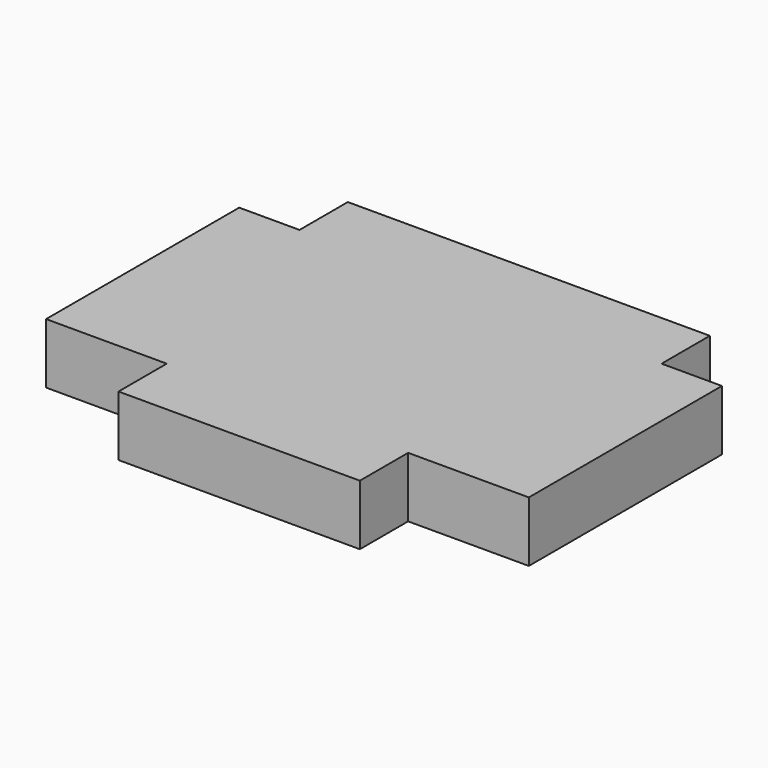
from build123d import *

# Parameters (mm, degrees)
F0_W     = 38.1
F0_H     = 38.1
F1_DEPTH = 6.35
F2_W     = 25.4
F2_H     = 6.35
F4_DEPTH = 6.35
F3_W     = 25.4
F3_H     = 6.35
F5_DEPTH = 6.35
F6_DEPTH = 6.35
F7_DEPTH = 6.35


with BuildPart() as f1:
    # F0 (on Top) → F1 (new body)
    with BuildSketch(Plane.XY):
        with Locations((43.8062495112, -24.5695395887)):
            Rectangle(F0_W, F0_H)
    extrude(amount=F1_DEPTH)

    # F2 (on face) → F4 (join)
    with BuildSketch(Plane.YZ.offset(62.8562495112)):
        with Locations((-24.5695395887, 3.175)):
            Rectangle(F2_W, F2_H)
    extrude(amount=F4_DEPTH)

    # F3 (on face) → F5 (join)
    with BuildSketch(Plane(origin=(24.7562495112, 0, 0), x_dir=(0, -1, 0), z_dir=(-1, 0, 0))):
        with Locations((24.5695395887, 3.175)):
            Rectangle(F3_W, F3_H)
    extrude(amount=F5_DEPTH)

    # F6 (cut): a face of the model
    f6_faces = [f1.faces().sort_by_distance(p)[0] for p in [
        (62.8562495112, -40.4445395887, 3.175),
    ]]
    extrude(f6_faces, amount=-F6_DEPTH, mode=Mode.SUBTRACT)

    # F7 (cut): a face of the model
    f7_faces = [f1.faces().sort_by_distance(p)[0] for p in [
        (24.7562495112, -40.4445395887, 3.175),
    ]]
    extrude(f7_faces, amount=-F7_DEPTH, mode=Mode.SUBTRACT)


solid = f1.part
